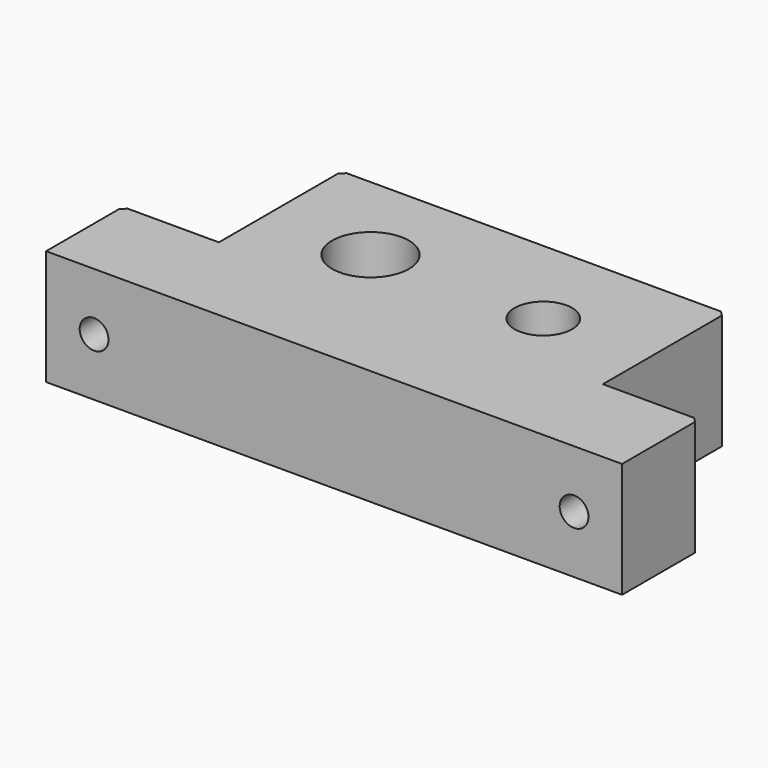
from build123d import *

# Parameters (mm, degrees)
F0_R          = 4
F0_R_2        = 3
F1_DEPTH      = 6
F1_DEPTH_BACK = 6
F2_R          = 1.5
F3_DEPTH      = 26.001
F4_SIZE       = 0.5


with BuildPart() as f1:
    # F0 (on Top) → F1 (new body, two sides)
    with BuildSketch(Plane.XY) as f1_sk:
        Polygon((-30, 10), (-30, 0), (30, 0), (30, 10), (20, 10), (20, 26), (-20, 26), (-20, 10), align=None)
        with Locations((-9, 16)):
            Circle(F0_R, mode=Mode.SUBTRACT)
        with Locations((9, 16)):
            Circle(F0_R_2, mode=Mode.SUBTRACT)
    extrude(amount=F1_DEPTH)
    extrude(f1_sk.sketch, amount=-F1_DEPTH_BACK)

    # F2 (on face) → F3 (cut, through all)
    with BuildSketch(Plane.XZ):
        with Locations((-25, 0)):
            Circle(F2_R)
        with Locations((25, 0)):
            Circle(F2_R)
    extrude(amount=-F3_DEPTH, mode=Mode.SUBTRACT)

    # F4
    f4_edges = [f1.edges().sort_by_distance(p)[0] for p in [
        (-20, 26, 0),
        (20, 26, 0),
        (30, 10, 0),
        (-30, 10, 0),
    ]]
    chamfer(f4_edges, length=F4_SIZE)


solid = f1.part
